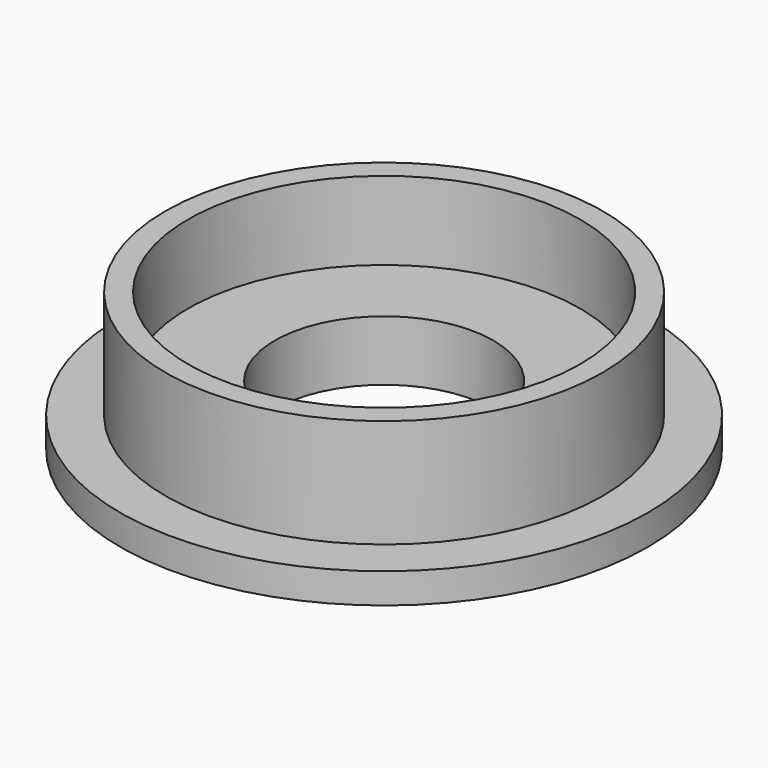
from build123d import *

# Parameters (mm, degrees)
F0_R     = 8.75
F1_DEPTH = 1
F2_R     = 7.25
F3_DEPTH = 3.6
F4_R     = 6.5
F5_DEPTH = 2.6
F6_R     = 3.625
F7_DEPTH = 2.001


with BuildPart() as f1:
    # F0 (on Top) → F1 (new body)
    with BuildSketch(Plane.XY):
        Circle(F0_R)
    extrude(amount=F1_DEPTH)

    # F2 (on face) → F3 (join)
    with BuildSketch(Plane.XY.offset(1)):
        Circle(F2_R)
    extrude(amount=F3_DEPTH)

    # F4 (on face) → F5 (cut)
    with BuildSketch(Plane.XY.offset(4.6)):
        Circle(F4_R)
    extrude(amount=-F5_DEPTH, mode=Mode.SUBTRACT)

    # F6 (on face) → F7 (cut, through all)
    with BuildSketch(Plane.XY.offset(2)):
        Circle(F6_R)
    extrude(amount=-F7_DEPTH, mode=Mode.SUBTRACT)


solid = f1.part
